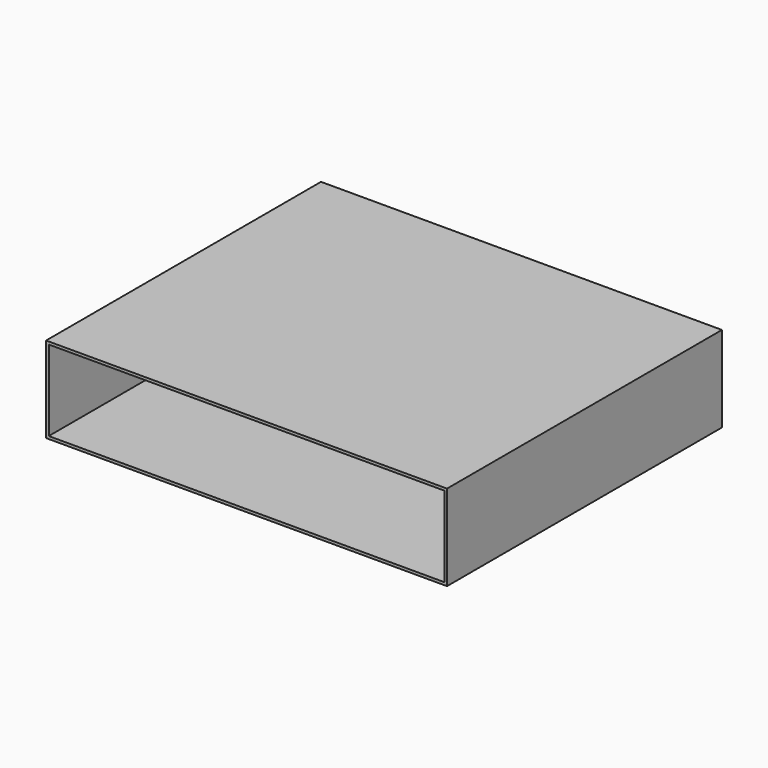
from build123d import *

# Parameters (mm, degrees)
F0_W     = 900
F0_H     = 225
F1_DEPTH = 1050
F2_T     = -7


with BuildPart() as f1:
    # F0 (on Right) → F1 (new body)
    with BuildSketch(Plane.YZ):
        with Locations((450, -112.5)):
            Rectangle(F0_W, F0_H)
    extrude(amount=-F1_DEPTH)

    # F2
    f2_openings = [f1.faces().sort_by_distance(p)[0] for p in [
        (-525, 0, -112.5),
    ]]
    offset(amount=F2_T, openings=f2_openings)


solid = f1.part
